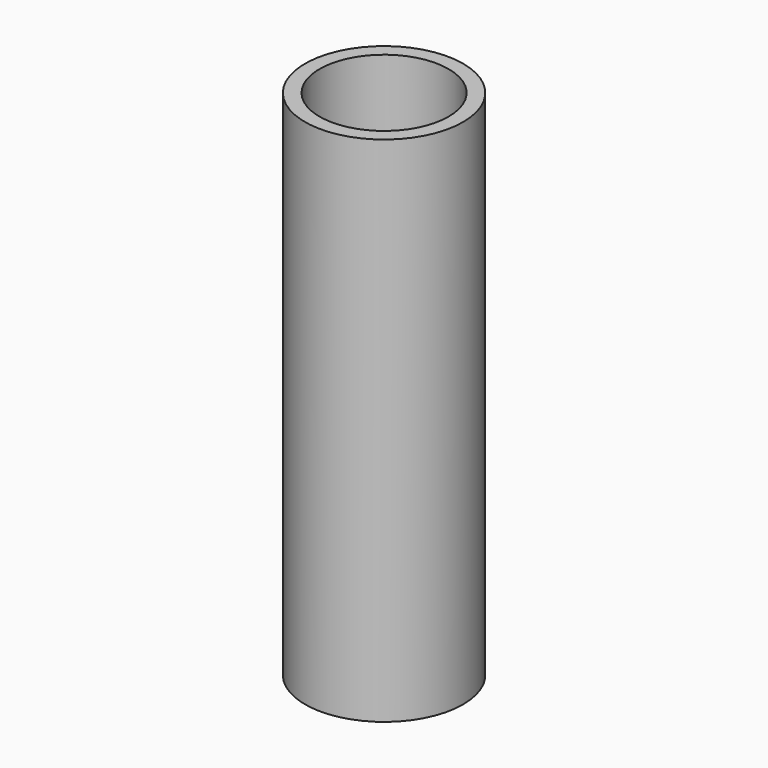
from build123d import *

# Parameters (mm, degrees)
F0_R     = 11.751195
F1_DEPTH = 38.1
F2_R     = 9.586829
F3_DEPTH = 38.1


with BuildPart() as f1:
    # F0 (on Top) → F1 (new body, symmetric)
    with BuildSketch(Plane.XY):
        Circle(F0_R)
    extrude(amount=F1_DEPTH, both=True)

    # F2 (on Top) → F3 (cut, symmetric)
    with BuildSketch(Plane.XY):
        Circle(F2_R)
    extrude(amount=F3_DEPTH, both=True, mode=Mode.SUBTRACT)


solid = f1.part
